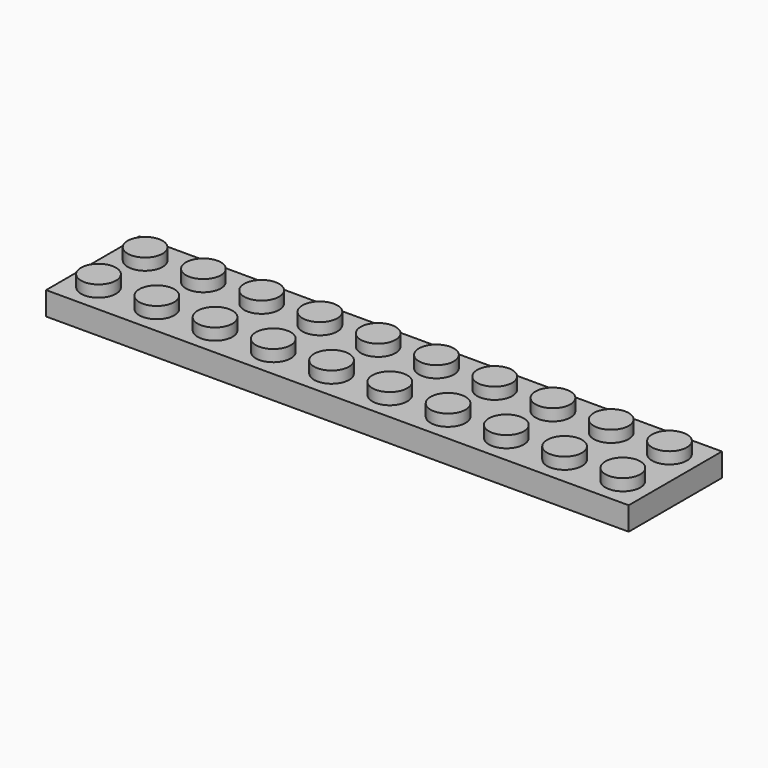
from build123d import *

# Parameters (mm, degrees)
F0_W     = 79.375
F0_H     = 15.875
F0_R     = 2.38125
F1_DEPTH = 3.175
F2_DEPTH = 4.7625
F3_T     = -1.5875
F4_R     = 3.175
F4_R_2   = 2.38125
F5_DEPTH = 1.5875


with BuildPart() as f1:
    # F0 (on Top) → F1 (new body)
    with BuildSketch(Plane.XY):
        with Locations((23.8125, -3.96875)):
            Rectangle(F0_W, F0_H)
        with Locations((-11.90625, -7.9375)):
            Circle(F0_R, mode=Mode.SUBTRACT)
        with Locations((-3.96875, -7.9375)):
            Circle(F0_R, mode=Mode.SUBTRACT)
        with Locations((3.96875, -7.9375)):
            Circle(F0_R, mode=Mode.SUBTRACT)
        with Locations((11.90625, -7.9375)):
            Circle(F0_R, mode=Mode.SUBTRACT)
        with Locations((19.84375, -7.9375)):
            Circle(F0_R, mode=Mode.SUBTRACT)
        with Locations((27.78125, -7.9375)):
            Circle(F0_R, mode=Mode.SUBTRACT)
        with Locations((35.71875, -7.9375)):
            Circle(F0_R, mode=Mode.SUBTRACT)
        with Locations((43.65625, -7.9375)):
            Circle(F0_R, mode=Mode.SUBTRACT)
        with Locations((51.59375, -7.9375)):
            Circle(F0_R, mode=Mode.SUBTRACT)
        with Locations((59.53125, -7.9375)):
            Circle(F0_R, mode=Mode.SUBTRACT)
        with Locations((-11.90625, 0)):
            Circle(F0_R, mode=Mode.SUBTRACT)
        with Locations((-3.96875, 0)):
            Circle(F0_R, mode=Mode.SUBTRACT)
        with Locations((3.96875, 0)):
            Circle(F0_R, mode=Mode.SUBTRACT)
        with Locations((11.90625, 0)):
            Circle(F0_R, mode=Mode.SUBTRACT)
        with Locations((19.84375, 0)):
            Circle(F0_R, mode=Mode.SUBTRACT)
        with Locations((27.78125, 0)):
            Circle(F0_R, mode=Mode.SUBTRACT)
        with Locations((35.71875, 0)):
            Circle(F0_R, mode=Mode.SUBTRACT)
        with Locations((43.65625, 0)):
            Circle(F0_R, mode=Mode.SUBTRACT)
        with Locations((51.59375, 0)):
            Circle(F0_R, mode=Mode.SUBTRACT)
        with Locations((59.53125, 0)):
            Circle(F0_R, mode=Mode.SUBTRACT)
    extrude(amount=F1_DEPTH)

    # F0 (on Top) → F2 (join)
    with BuildSketch(Plane.XY):
        with Locations((-11.90625, 0)):
            Circle(F0_R)
        with Locations((-11.90625, -7.9375)):
            Circle(F0_R)
        with Locations((-3.96875, -7.9375)):
            Circle(F0_R)
        with Locations((-3.96875, 0)):
            Circle(F0_R)
        with Locations((3.96875, 0)):
            Circle(F0_R)
        with Locations((3.96875, -7.9375)):
            Circle(F0_R)
        with Locations((11.90625, -7.9375)):
            Circle(F0_R)
        with Locations((11.90625, 0)):
            Circle(F0_R)
        with Locations((19.84375, 0)):
            Circle(F0_R)
        with Locations((27.78125, 0)):
            Circle(F0_R)
        with Locations((27.78125, -7.9375)):
            Circle(F0_R)
        with Locations((19.84375, -7.9375)):
            Circle(F0_R)
        with Locations((35.71875, 0)):
            Circle(F0_R)
        with Locations((43.65625, 0)):
            Circle(F0_R)
        with Locations((43.65625, -7.9375)):
            Circle(F0_R)
        with Locations((35.71875, -7.9375)):
            Circle(F0_R)
        with Locations((51.59375, 0)):
            Circle(F0_R)
        with Locations((59.53125, 0)):
            Circle(F0_R)
        with Locations((59.53125, -7.9375)):
            Circle(F0_R)
        with Locations((51.59375, -7.9375)):
            Circle(F0_R)
    extrude(amount=F2_DEPTH)

    # F3
    f3_openings = [f1.faces().sort_by_distance(p)[0] for p in [
        (23.8125, -3.96875, 0),
    ]]
    offset(amount=F3_T, openings=f3_openings, kind=Kind.INTERSECTION)

    # F4 (on face) → F5 (join)
    with BuildSketch(Plane(origin=(0, 0, 1.5875), x_dir=(1, 0, 0), z_dir=(0, 0, -1))):
        with BuildLine():
            ThreePointArc((-4.7625, 3.96875), (-6.7224801022, 6.9020675157), (-10.1825640303, 6.2138140303))
            Line((-10.1825640303, 6.2138140303), (-9.6212980227, 5.6525480227))
            ThreePointArc((-9.6212980227, 5.6525480227), (-7.0262350767, 6.1687381368), (-5.55625, 3.96875))
            ThreePointArc((-5.55625, 3.96875), (-5.7375118632, 3.0574850767), (-6.2537019773, 2.2849519773))
            Line((-6.2537019773, 2.2849519773), (-5.6924359697, 1.7236859697))
            ThreePointArc((-5.6924359697, 1.7236859697), (-5.0041824843, 2.7537301022), (-4.7625, 3.96875))
        make_face()
        with BuildLine():
            Line((-9.6212980227, 5.6525480227), (-10.1825640303, 6.2138140303))
            ThreePointArc((-10.1825640303, 6.2138140303), (-10.1825640303, 1.7236859697), (-5.6924359697, 1.7236859697))
            Line((-5.6924359697, 1.7236859697), (-6.2537019773, 2.2849519773))
            ThreePointArc((-6.2537019773, 2.2849519773), (-9.6212980227, 2.2849519773), (-9.6212980227, 5.6525480227))
        make_face()
        with Locations((0, 3.96875)):
            Circle(F4_R)
        with Locations((0, 3.96875)):
            Circle(F4_R_2, mode=Mode.SUBTRACT)
        with Locations((7.9375, 3.96875)):
            Circle(F4_R)
        with Locations((7.9375, 3.96875)):
            Circle(F4_R_2, mode=Mode.SUBTRACT)
        with Locations((15.875, 3.96875)):
            Circle(F4_R)
        with Locations((15.875, 3.96875)):
            Circle(F4_R_2, mode=Mode.SUBTRACT)
        with Locations((23.8125, 3.96875)):
            Circle(F4_R)
        with Locations((23.8125, 3.96875)):
            Circle(F4_R_2, mode=Mode.SUBTRACT)
        with Locations((31.75, 3.96875)):
            Circle(F4_R)
        with Locations((31.75, 3.96875)):
            Circle(F4_R_2, mode=Mode.SUBTRACT)
        with Locations((39.6875, 3.96875)):
            Circle(F4_R)
        with Locations((39.6875, 3.96875)):
            Circle(F4_R_2, mode=Mode.SUBTRACT)
        with Locations((47.625, 3.96875)):
            Circle(F4_R)
        with Locations((47.625, 3.96875)):
            Circle(F4_R_2, mode=Mode.SUBTRACT)
        with Locations((55.5625, 3.96875)):
            Circle(F4_R)
        with Locations((55.5625, 3.96875)):
            Circle(F4_R_2, mode=Mode.SUBTRACT)
    extrude(amount=F5_DEPTH)


solid = f1.part
